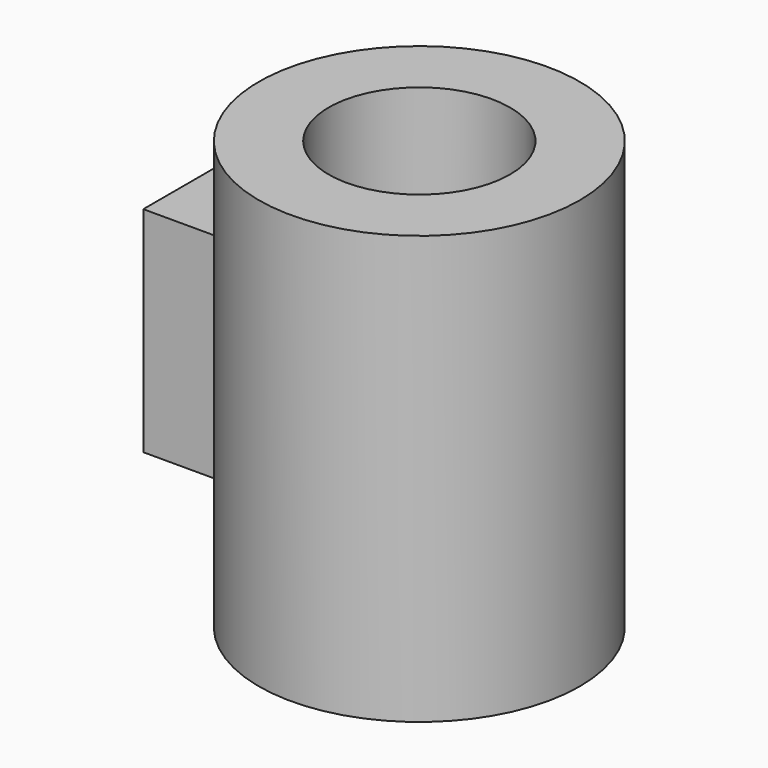
from build123d import *

# Parameters (mm, degrees)
F0_R      = 19.05
F0_R_2    = 10.7696
F1_DEPTH  = 50.8
F2_W      = 7.62
F2_H      = 25.4
F3_DEPTH  = 7.62
F3_FACE_W = 7.62
F3_FACE_H = 25.4
F4_DEPTH  = 7.62
F5_W      = 15.24
F5_H      = 25.4
F6_DEPTH  = 12.7
F7_W      = 11.8872
F7_H      = 22.0472
F8_DEPTH  = 1.27


with BuildPart() as f1:
    # F0 (on Top) → F1 (new body)
    with BuildSketch(Plane.XY):
        Circle(F0_R)
        Circle(F0_R_2, mode=Mode.SUBTRACT)
    extrude(amount=F1_DEPTH)



with BuildPart() as f3:
    # F2 (on Front) → F3 (new body)
    with BuildSketch(Plane.XZ):
        with Locations((-22.86, 25.4)):
            Rectangle(F2_W, F2_H)
    extrude(amount=F3_DEPTH)


with BuildPart() as f1_1:
    add(f1.part)

    add(f3.part)  # F4 merges F3
    # F3_face (on face) → F4 (join)
    with BuildSketch(Plane(origin=(-22.86, 0, 25.4), x_dir=(1, 0, 0), z_dir=(0, 1, 0))):
        Rectangle(F3_FACE_W, F3_FACE_H)
    extrude(amount=F4_DEPTH)


with BuildPart() as f6:
    # F5 (on face) → F6 (new body)
    with BuildSketch(Plane(origin=(-26.67, 0, 0), x_dir=(0, -1, 0), z_dir=(-1, 0, 0))):
        with Locations((0, 25.4)):
            Rectangle(F5_W, F5_H)
    extrude(amount=-F6_DEPTH)


with BuildPart() as f8_tool:
    # F7 (on face) → F8 (new body)
    with BuildSketch(Plane(origin=(-26.67, 0, 0), x_dir=(0, -1, 0), z_dir=(-1, 0, 0))):
        with Locations((0, 25.4)):
            Rectangle(F7_W, F7_H)
    extrude(amount=-F8_DEPTH)


with BuildPart() as f1_2:
    add(f1_1.part)

    # F8: cut by f8_tool
    add(f8_tool.part, mode=Mode.SUBTRACT)


with BuildPart() as f6_1:
    add(f6.part)

    # F8: cut by f8_tool
    add(f8_tool.part, mode=Mode.SUBTRACT)


solid = Compound([f1_2.part, f6_1.part])
